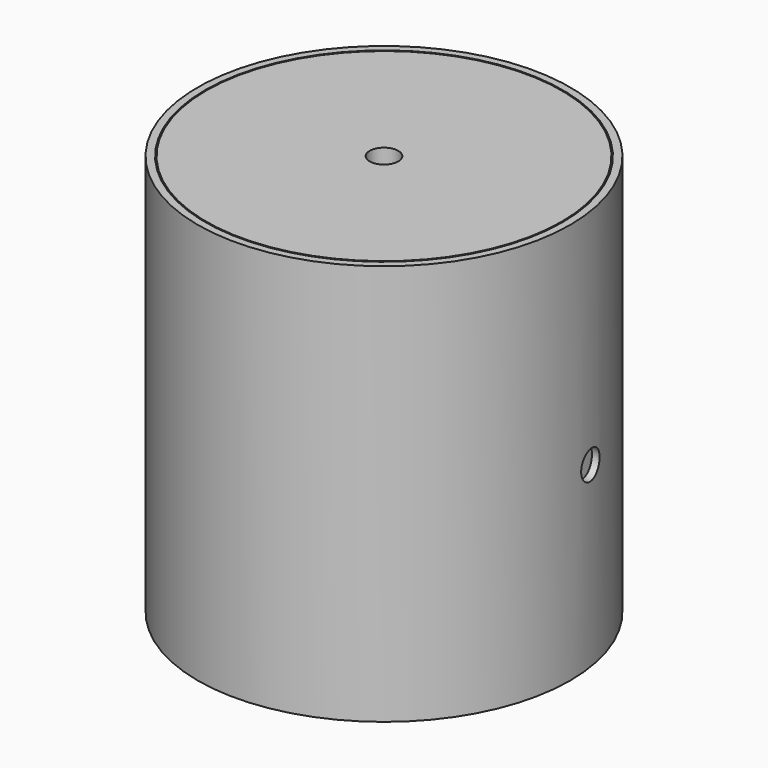
from build123d import *

# Parameters (mm, degrees)
F0_R     = 41.275
F0_R_2   = 39.624
F1_DEPTH = 88.9
F2_R     = 39.37
F2_R_2   = 3.175
F3_DEPTH = 6.35
F4_R     = 3.175
F5_DEPTH = 127
F6_R     = 4.7625
F6_R_2   = 3.175
F7_DEPTH = 6.35


with BuildPart() as f1:
    # F0 (on Top) → F1 (new body)
    with BuildSketch(Plane.XY):
        Circle(F0_R)
        Circle(F0_R_2, mode=Mode.SUBTRACT)
    extrude(amount=F1_DEPTH)

    # F4 (on Right) → F5 (cut)
    with BuildSketch(Plane.YZ):
        with Locations((6.35, 39.37)):
            Circle(F4_R)
    extrude(amount=F5_DEPTH, mode=Mode.SUBTRACT)


with BuildPart() as f3:
    # F2 (on face) → F3 (new body)
    with BuildSketch(Plane.XY.offset(88.9)):
        Circle(F2_R)
        Circle(F2_R_2, mode=Mode.SUBTRACT)
    extrude(amount=-F3_DEPTH)


with BuildPart() as f7:
    # F6 (on face) → F7 (new body)
    with BuildSketch(Plane(origin=(0, 0, 82.55), x_dir=(1, 0, 0), z_dir=(0, 0, -1))):
        Circle(F6_R)
        Circle(F6_R_2, mode=Mode.SUBTRACT)
    extrude(amount=F7_DEPTH)


solid = Compound([f1.part, f3.part, f7.part])
